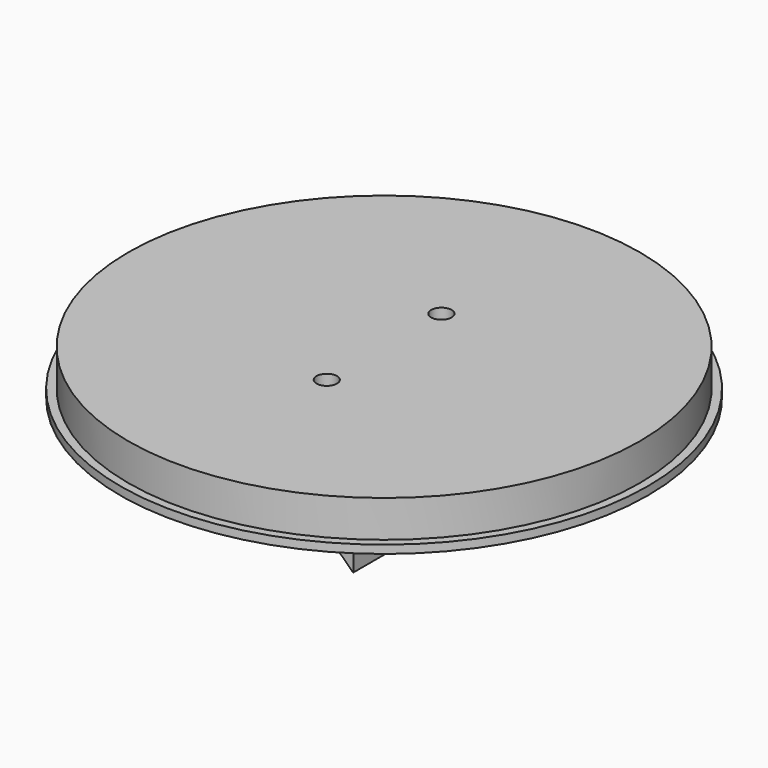
from build123d import *

# Parameters (mm, degrees)
F0_R      = 64.5
F1_DEPTH  = 2
F2_R      = 62.5
F3_DEPTH  = 9
F4_W      = 45
F4_H      = 75
F5_DEPTH  = 15
F8_DEPTH  = 75
F9_R      = 2.5
F10_DEPTH = 35


with BuildPart() as f1:
    # F0 (on Top) → F1 (new body)
    with BuildSketch(Plane.XY):
        Circle(F0_R)
    extrude(amount=F1_DEPTH)

    # F2 (on face) → F3 (join)
    with BuildSketch(Plane.XY.offset(2)):
        Circle(F2_R)
    extrude(amount=F3_DEPTH)

    # F4 (on face) → F5 (join)
    with BuildSketch(Plane(origin=(0, 0, 0), x_dir=(1, 0, 0), z_dir=(0, 0, -1))):
        Rectangle(F4_W, F4_H)
    extrude(amount=F5_DEPTH)

    # F7 (on face) → F8 (cut)
    with BuildSketch(Plane.XZ.offset(37.5)):
        with BuildLine():
            Line((-22.360679775, -15), (22.360679775, -15))
            ThreePointArc((22.360679775, -15), (0, -5), (-22.360679775, -15))
        make_face()
    extrude(amount=-F8_DEPTH, mode=Mode.SUBTRACT)

    # F9 (on face) → F10 (cut)
    with BuildSketch(Plane(origin=(0, 0, -15), x_dir=(1, 0, 0), z_dir=(0, 0, -1))):
        with Locations((0, 17.5)):
            Circle(F9_R)
        with Locations((0, -17.5)):
            Circle(F9_R)
    extrude(amount=-F10_DEPTH, mode=Mode.SUBTRACT)


solid = f1.part
